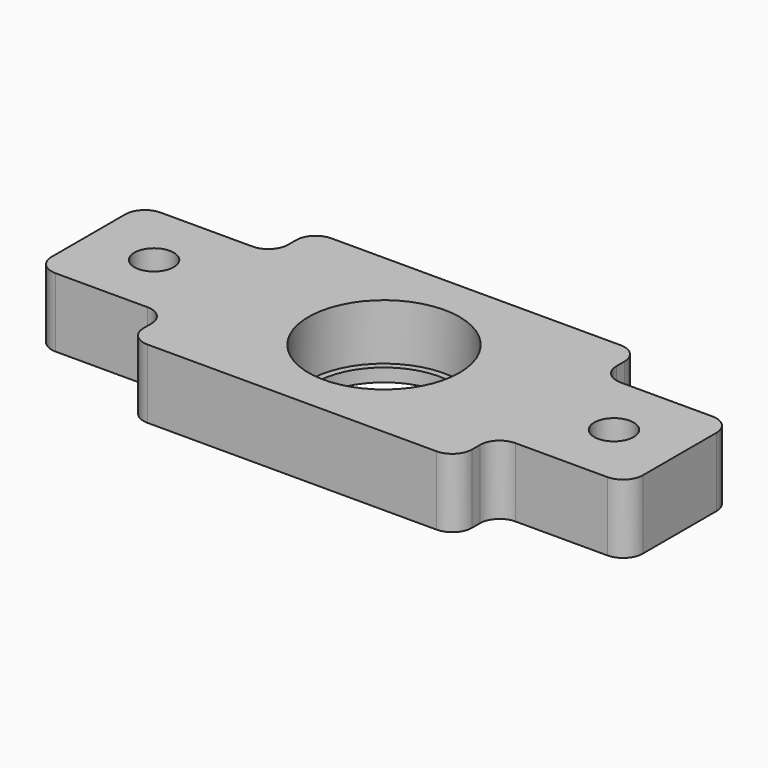
from build123d import *

# Parameters (mm, degrees)
F0_R     = 11.5
F0_W     = 20
F0_H     = 20
F0_R_2   = 3
F1_DEPTH = 10.5
F0_R_3   = 10.5
F2_DEPTH = 2
F3_R     = 3


with BuildPart() as f1:
    # F0 (on Top) → F1 (new body)
    with BuildSketch(Plane.XY):
        Polygon((25, 17.5), (-25, 17.5), (-25, 10), (-25, -10), (-25, -17.5), (25, -17.5), (25, -10), (25, 10), align=None)
        Circle(F0_R, mode=Mode.SUBTRACT)
        with Locations((-35, 0)):
            Rectangle(F0_W, F0_H)
        with Locations((-35, 0)):
            Circle(F0_R_2, mode=Mode.SUBTRACT)
        with Locations((35, 0)):
            Rectangle(F0_W, F0_H)
        with Locations((35, 0)):
            Circle(F0_R_2, mode=Mode.SUBTRACT)
    extrude(amount=F1_DEPTH)

    # F0 (on Top) → F2 (join)
    with BuildSketch(Plane.XY):
        Circle(F0_R)
        Circle(F0_R_3, mode=Mode.SUBTRACT)
    extrude(amount=F2_DEPTH)

    # F3
    f3_edges = [f1.edges().sort_by_distance(p)[0] for p in [
        (-25, -10, 5.25),
        (-25, 10, 5.25),
        (25, 10, 5.25),
        (25, -10, 5.25),
        (25, 17.5, 5.25),
        (25, -17.5, 5.25),
        (-25, -17.5, 5.25),
        (-25, 17.5, 5.25),
        (-45, 10, 5.25),
        (-45, -10, 5.25),
        (45, -10, 5.25),
        (45, 10, 5.25),
    ]]
    fillet(f3_edges, radius=F3_R)


solid = f1.part
